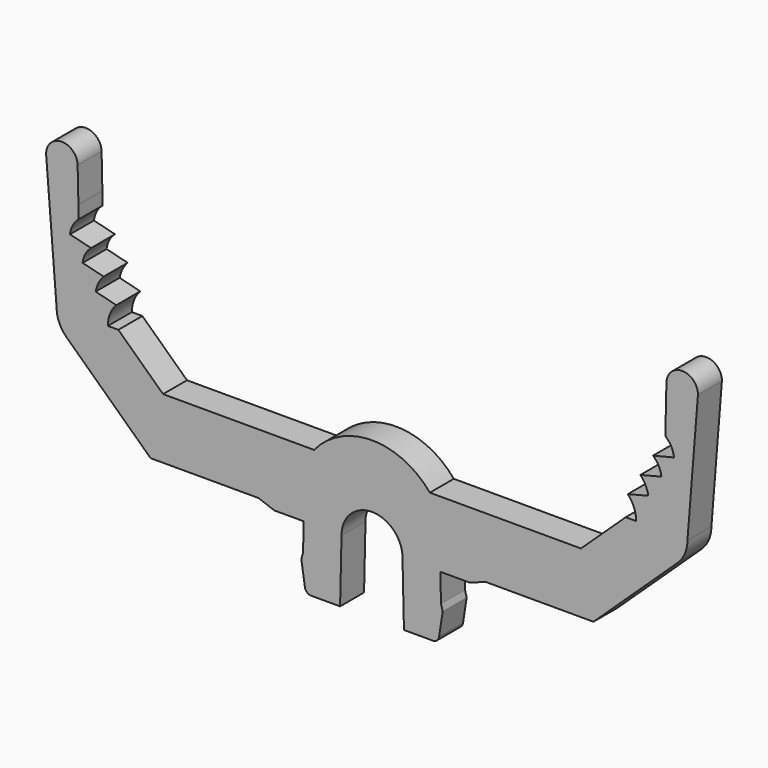
from build123d import *

# Parameters (mm, degrees)
F1_DEPTH = 2.85


with BuildPart() as f1:
    # F0 (on Front) → F1 (new body)
    with BuildSketch(Plane.XZ):
        with BuildLine():
            Line((-5.5, 25.817474), (-19.875, 25.817474))
            Line((-19.875, 25.817474), (-24.125, 29.817474))
            Line((-24.125, 29.817474), (-25.125, 29.817474))
            ThreePointArc((-25.125, 29.817474), (-24.917582, 30.894507), (-24.325, 31.817474))
            Line((-24.325, 31.817474), (-26.281571, 32.317474))
            ThreePointArc((-26.281571, 32.317474), (-26.014286, 33.123461), (-25.525, 33.817474))
            Line((-25.525, 33.817474), (-27.524757, 34.317474))
            ThreePointArc((-27.524757, 34.317474), (-27.269126, 35.144383), (-26.725, 35.817474))
            Line((-26.725, 35.817474), (-28.724757, 36.317474))
            ThreePointArc((-28.724757, 36.317474), (-28.469126, 37.144383), (-27.925, 37.817474))
            Line((-27.925, 37.817474), (-27.925, 39.067474))
            Line((-27.925, 39.067474), (-28.000395, 42.351898))
            ThreePointArc((-28.000395, 42.351898), (-29.517213, 43.817376), (-31, 42.317474))
            Line((-31, 42.317474), (-30.000272, 29.777114))
            ThreePointArc((-30.000272, 29.777114), (-29.754203, 28.587215), (-29.056366, 27.592514))
            Line((-29.056366, 27.592514), (-21.061011, 20.067474))
            Line((-21.061011, 20.067474), (-10.8, 20.067474))
            Line((-10.8, 20.067474), (-9.3, 19.517474))
            Line((-9.3, 19.517474), (-6.49904, 19.517474))
            Line((-6.49904, 19.517474), (-6.560163, 16.867474))
            Line((-6.560163, 16.867474), (-6.725, 16.267474))
            Line((-6.725, 16.267474), (-6.378565, 14.025835))
            ThreePointArc((-6.378565, 14.025835), (-6.176127, 13.661962), (-5.785604, 13.517474))
            Line((-5.785604, 13.517474), (-3.037433, 13.517474))
            Line((-3.037433, 13.517474), (-2.89904, 19.517474))
            ThreePointArc((-2.89904, 19.517474), (0, 22.416514), (2.89904, 19.517474))
            Line((2.89904, 19.517474), (3.037433, 13.517474))
            Line((3.037433, 13.517474), (5.785604, 13.517474))
            ThreePointArc((5.785604, 13.517474), (6.176127, 13.661962), (6.378565, 14.025835))
            Line((6.378565, 14.025835), (6.725, 16.267474))
            Line((6.725, 16.267474), (6.560163, 16.867474))
            Line((6.560163, 16.867474), (6.49904, 19.517474))
            Line((6.49904, 19.517474), (9.3, 19.517474))
            Line((9.3, 19.517474), (10.8, 20.067474))
            Line((10.8, 20.067474), (21.061011, 20.067474))
            Line((21.061011, 20.067474), (29.056366, 27.592514))
            ThreePointArc((29.056366, 27.592514), (29.754203, 28.587215), (30.000272, 29.777114))
            Line((30.000272, 29.777114), (31, 42.317474))
            ThreePointArc((31, 42.317474), (29.517213, 43.817376), (28.000395, 42.351898))
            Line((28.000395, 42.351898), (27.925, 39.067474))
            Line((27.925, 39.067474), (27.925, 37.817474))
            ThreePointArc((27.925, 37.817474), (28.469126, 37.144383), (28.724757, 36.317474))
            Line((28.724757, 36.317474), (26.725, 35.817474))
            ThreePointArc((26.725, 35.817474), (27.269126, 35.144383), (27.524757, 34.317474))
            Line((27.524757, 34.317474), (25.525, 33.817474))
            ThreePointArc((25.525, 33.817474), (26.014286, 33.123461), (26.281571, 32.317474))
            Line((26.281571, 32.317474), (24.325, 31.817474))
            ThreePointArc((24.325, 31.817474), (24.917582, 30.894507), (25.125, 29.817474))
            Line((25.125, 29.817474), (24.125, 29.817474))
            Line((24.125, 29.817474), (19.875, 25.817474))
            Line((19.875, 25.817474), (5.5, 25.817474))
            ThreePointArc((5.5, 25.817474), (0, 28.416514), (-5.5, 25.817474))
        make_face()
    extrude(amount=F1_DEPTH)


solid = f1.part
